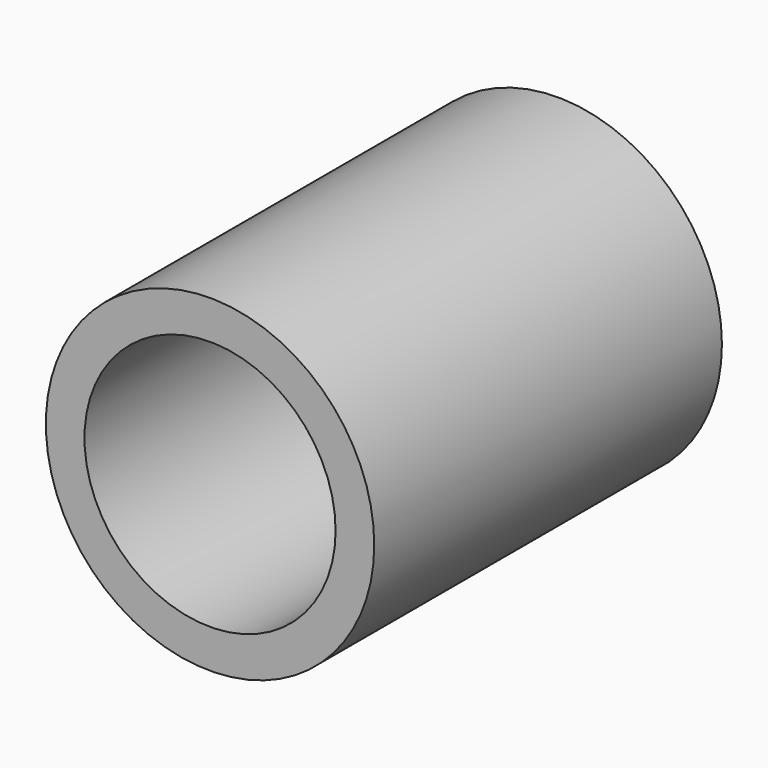
from build123d import *

# Parameters (mm, degrees)
F0_R     = 17
F0_R_2   = 14.25
F0_R_3   = 13
F1_DEPTH = 30
F2_DEPTH = 15


with BuildPart() as f1:
    # F0 (on Front) → F1 (new body)
    with BuildSketch(Plane.XZ):
        Circle(F0_R)
        Circle(F0_R_2, mode=Mode.SUBTRACT)
        Circle(F0_R_2)
        Circle(F0_R_3, mode=Mode.SUBTRACT)
    extrude(amount=F1_DEPTH)

    # F0 (on Front) → F2 (join)
    with BuildSketch(Plane.XZ):
        Circle(F0_R)
        Circle(F0_R_2, mode=Mode.SUBTRACT)
    extrude(amount=-F2_DEPTH)


solid = f1.part
